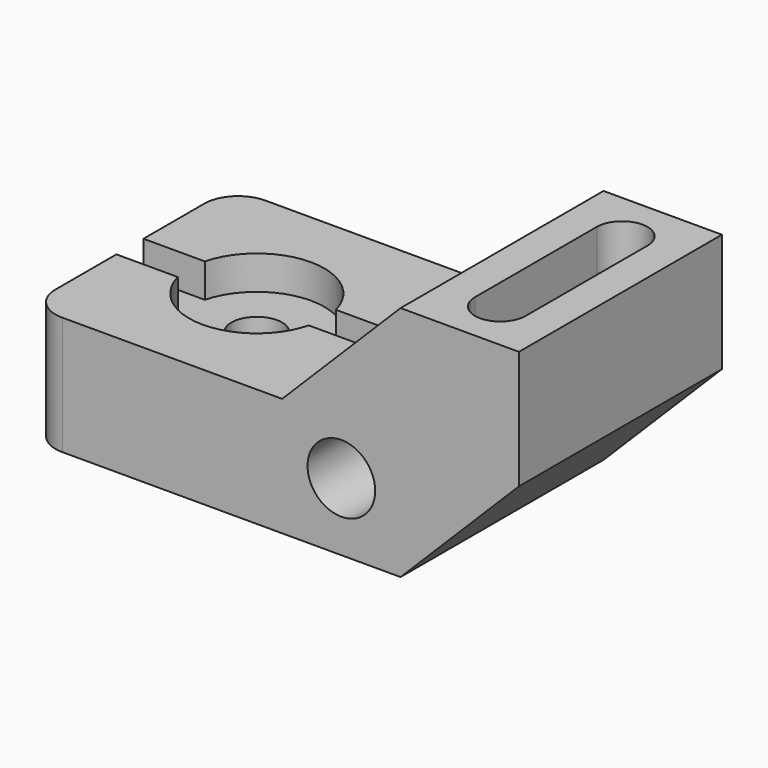
from build123d import *

# Parameters (mm, degrees)
F0_R           = 10.16
F1_DEPTH       = 76.2
F3_DEPTH       = 27.94
F6_D           = 15.24
F6_DEPTH       = 35.56
F6_CBORE_D     = 40.64
F6_CBORE_DEPTH = 10.16
F4_W           = 76.2
F4_H           = 10.16
F7_DEPTH       = 10.16
F8_R           = 10.16


with BuildPart() as f1:
    # F0 (on Front) → F1 (new body)
    with BuildSketch(Plane.XZ):
        Polygon((0, 35.56), (0, 0), (111.76, 0), (147.32, 35.56), (147.32, 71.12), (111.76, 71.12), (76.2, 35.56), align=None)
        with Locations((93.98, 20.32)):
            Circle(F0_R, mode=Mode.SUBTRACT)
    extrude(amount=F1_DEPTH)

    # F2 (on face) → F3 (cut)
    with BuildSketch(Plane.XY.offset(71.12)):
        with BuildLine():
            ThreePointArc((137.16, -15.24), (129.54, -7.62), (121.92, -15.24))
            Line((121.92, -15.24), (121.92, -60.96))
            ThreePointArc((121.92, -60.96), (129.54, -68.58), (137.16, -60.96))
            Line((137.16, -60.96), (137.16, -15.24))
        make_face()
    extrude(amount=-F3_DEPTH, mode=Mode.SUBTRACT)

    # F6
    with Locations(Plane.XY.offset(35.56)):
        with Locations((38.1, -38.1)):
            CounterBoreHole(F6_D / 2, F6_CBORE_D / 2, F6_CBORE_DEPTH, depth=F6_DEPTH)

    # F4 (on face) → F7 (cut)
    with BuildSketch(Plane.XY.offset(35.56)):
        with Locations((38.1, -38.1)):
            Rectangle(F4_W, F4_H)
    extrude(amount=-F7_DEPTH, mode=Mode.SUBTRACT)

    # F8
    f8_edges = [f1.edges().sort_by_distance(p)[0] for p in [
        (0, -76.2, 17.78),
        (0, 0, 17.78),
    ]]
    fillet(f8_edges, radius=F8_R)


solid = f1.part
